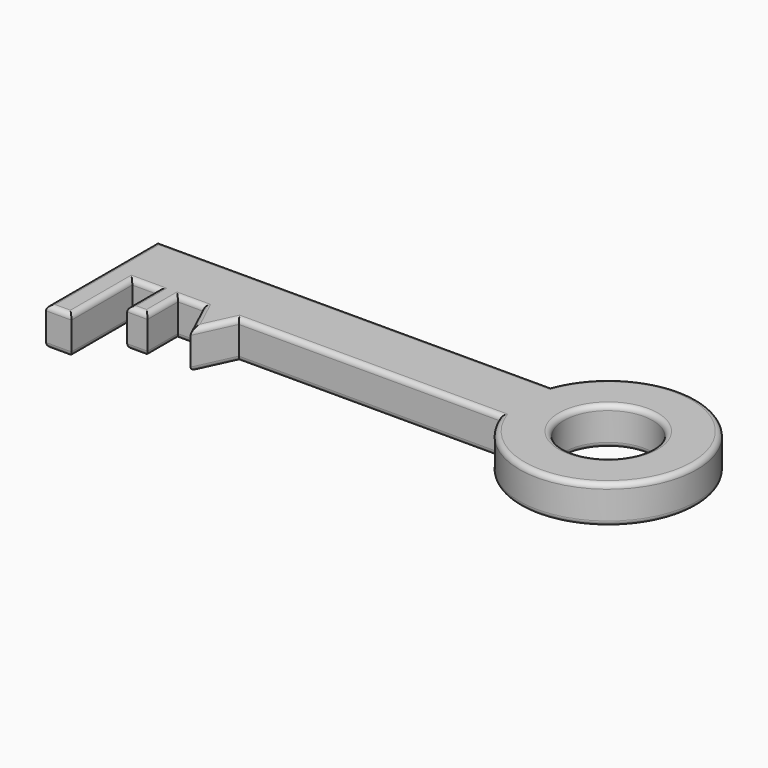
from build123d import *

# Parameters (mm, degrees)
F0_R     = 17.5
F0_W     = 10
F0_H     = 30
F0_W_2   = 8
F0_H_2   = 15
F1_DEPTH = 15
F2_R     = 2


with BuildPart() as f1:
    # F0 (on Top) → F1 (new body)
    with BuildSketch(Plane.XY):
        Polygon((-4.8931607604, 15), (-4.8931607604, 40), (-159.8931607604, 40), (-159.8931607604, 15), (-149.8931607604, 15), (-139.8931607604, 15), (-131.8931607604, 15), (-121.8931607604, 15), (-107.8931607604, 15), align=None)
        with BuildLine():
            ThreePointArc((-4.8931607604, 15), (62.7985813162, 27.5), (-4.8931607604, 40))
            Line((-4.8931607604, 40), (-4.8931607604, 15))
        make_face()
        with Locations((27.7985813162, 27.5)):
            Circle(F0_R, mode=Mode.SUBTRACT)
        with Locations((-154.8931607604, 0)):
            Rectangle(F0_W, F0_H)
        Polygon((-114.8931607604, 0), (-107.8931607604, 15), (-121.8931607604, 15), align=None)
        with Locations((-135.8931607604, 7.5)):
            Rectangle(F0_W_2, F0_H_2)
    extrude(amount=F1_DEPTH)

    # F2
    f2_edges = [f1.edges().sort_by_distance(p)[0] for p in [
        (62.798581, 27.5, 15),
        (-82.393161, 40, 15),
        (10.298581, 27.5, 15),
        (-56.393161, 15, 15),
        (-111.393161, 7.5, 15),
        (-131.893161, 7.5, 15),
        (-118.393161, 7.5, 15),
        (-126.893161, 15, 15),
        (-149.893161, 0, 15),
        (-144.893161, 15, 15),
        (-139.893161, 7.5, 15),
        (-159.893161, 12.5, 15),
        (-154.893161, -15, 15),
        (-135.893161, 0, 15),
        (62.798581, 27.5, 0),
        (10.298581, 27.5, 0),
        (-56.393161, 15, 0),
        (-82.393161, 40, 0),
        (-126.893161, 15, 0),
        (-118.393161, 7.5, 0),
        (-139.893161, 7.5, 0),
        (-111.393161, 7.5, 0),
        (-131.893161, 7.5, 0),
        (-135.893161, 0, 0),
        (-144.893161, 15, 0),
        (-149.893161, 0, 0),
        (-154.893161, -15, 0),
        (-159.893161, 12.5, 0),
    ]]
    fillet(f2_edges, radius=F2_R)


solid = f1.part
